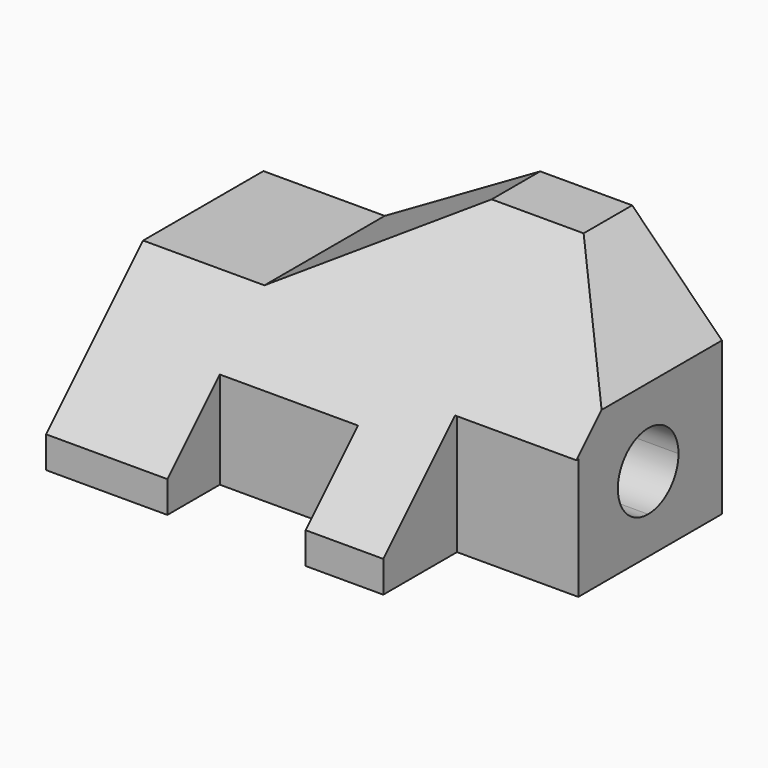
from build123d import *

# Parameters (mm, degrees)
F0_W      = 96.012
F0_H      = 50.8
F1_DEPTH  = 56.896
F3_DEPTH  = 96.012
F5_DEPTH  = 56.896
F7_DEPTH  = 56.896
F9_DEPTH  = 31.75
F10_W     = 25.4
F10_H     = 25.4
F11_DEPTH = 19.304
F12_W     = 28.956
F12_H     = 20.32
F13_DEPTH = 13.716


with BuildPart() as f1:
    # F0 (on Front) → F1 (new body)
    with BuildSketch(Plane.XZ):
        with Locations((48.006, 25.4)):
            Rectangle(F0_W, F0_H)
    extrude(amount=F1_DEPTH)

    # F2 (on face) → F3 (cut)
    with BuildSketch(Plane.YZ.offset(96.012)):
        Polygon((-56.896, 6.604), (-12.7, 50.8), (-56.896, 50.8), align=None)
    extrude(amount=-F3_DEPTH, mode=Mode.SUBTRACT)

    # F4 (on face) → F5 (cut)
    with BuildSketch(Plane(origin=(0, 0, 0), x_dir=(-1, 0, 0), z_dir=(0, 1, 0))):
        Polygon((0, 32.004), (0, 50.8), (-57.955627, 50.8), (-25.4, 32.004), align=None)
    extrude(amount=-F5_DEPTH, mode=Mode.SUBTRACT)

    # F6 (on face) → F7 (cut)
    with BuildSketch(Plane(origin=(0, 0, 0), x_dir=(-1, 0, 0), z_dir=(0, 1, 0))):
        Polygon((-77.216, 50.8), (-96.012, 50.8), (-96.012, 32.004), align=None)
    extrude(amount=-F7_DEPTH, mode=Mode.SUBTRACT)

    # F8 (on face) → F9 (cut)
    with BuildSketch(Plane.YZ.offset(96.012)):
        with BuildLine():
            ThreePointArc((-19.304, 7.8105), (-13.69134, 10.13534), (-11.3665, 15.748))
            ThreePointArc((-11.3665, 15.748), (-24.91666, 21.36066), (-19.304, 7.8105))
        make_face()
    extrude(amount=-F9_DEPTH, mode=Mode.SUBTRACT)

    # F10 (on face) → F11 (cut)
    with BuildSketch(Plane.XZ.offset(56.896)):
        with Locations((83.312, 12.7)):
            Rectangle(F10_W, F10_H)
    extrude(amount=-F11_DEPTH, mode=Mode.SUBTRACT)

    # F12 (on face) → F13 (cut)
    with BuildSketch(Plane.XZ.offset(56.896)):
        with Locations((39.878, 10.16)):
            Rectangle(F12_W, F12_H)
    extrude(amount=-F13_DEPTH, mode=Mode.SUBTRACT)


solid = f1.part
